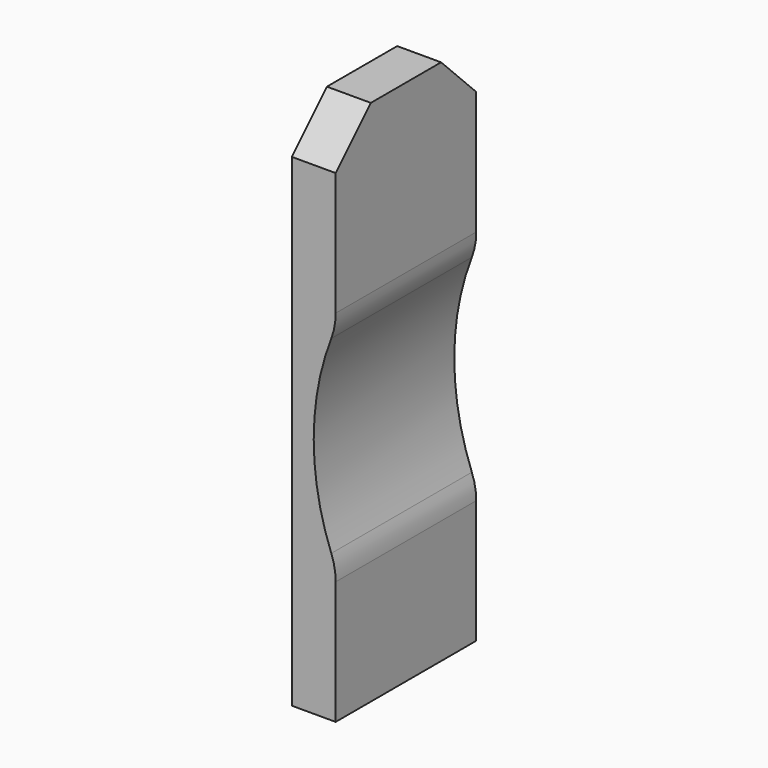
from build123d import *

# Parameters (mm, degrees)
F0_W     = 10
F0_H     = 120
F1_DEPTH = 40
F2_SIZE  = 10
F4_DEPTH = 40
F5_R     = 15


with BuildPart() as f1:
    # F0 (on Front) → F1 (new body)
    with BuildSketch(Plane.XZ):
        with Locations((5, 60)):
            Rectangle(F0_W, F0_H)
    extrude(amount=-F1_DEPTH)

    # F2
    f2_edges = [f1.edges().sort_by_distance(p)[0] for p in [
        (5, 0, 120),
        (5, 40, 120),
    ]]
    chamfer(f2_edges, length=F2_SIZE)

    # F3 (on face) → F4 (cut, through all)
    with BuildSketch(Plane.XZ):
        with BuildLine():
            ThreePointArc((10, 78.97916), (4.9999989609, 55), (10, 31.02084))
            Line((10, 31.02084), (10, 78.97916))
        make_face()
    extrude(amount=-F4_DEPTH, mode=Mode.SUBTRACT)

    # F5
    f5_edges = [f1.edges().sort_by_distance(p)[0] for p in [
        (10, 20, 31.02084),
        (10, 20, 78.97916),
    ]]
    fillet(f5_edges, radius=F5_R)


solid = f1.part
